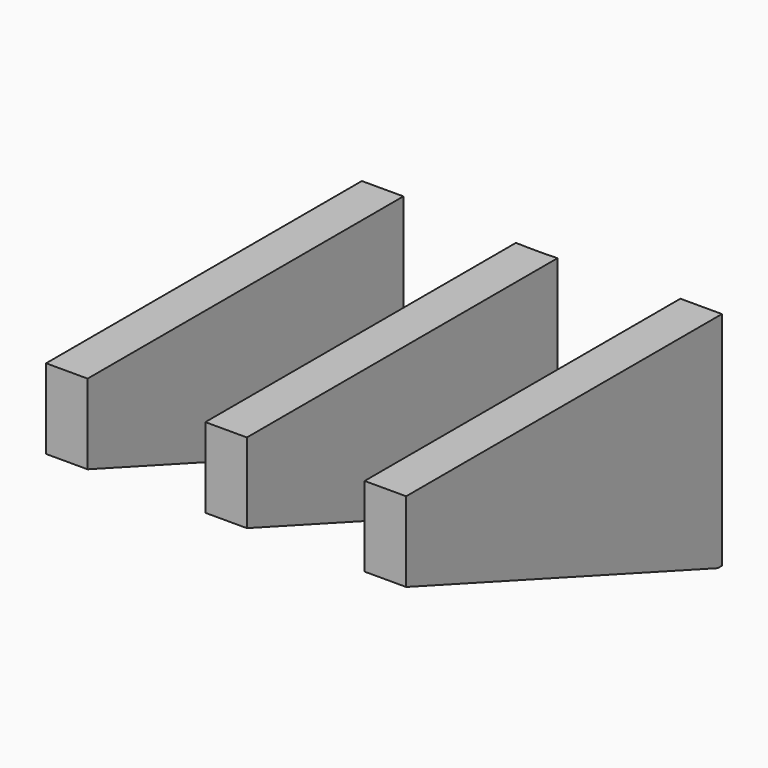
from build123d import *

# Parameters (mm, degrees)
CYLINDER1826_R         = 74
CYLINDER1826_DEPTH     = 64
BOX793_W               = 80
BOX793_H               = 6
BOX793_DEPTH           = 20
BOX793_PLACEMENT_ANGLE = 20
BOX791_W               = 57
BOX791_H               = 6
BOX791_DEPTH           = 32
CUT589_PLACEMENT_ANGLE = 90
BOX786_W               = 80
BOX786_H               = 6
BOX786_DEPTH           = 20
BOX786_PLACEMENT_ANGLE = 20
BOX788_W               = 57
BOX788_H               = 6
BOX788_DEPTH           = 32
CUT586_PLACEMENT_ANGLE = 90
BOX797_W               = 80
BOX797_H               = 6
BOX797_DEPTH           = 20
BOX797_PLACEMENT_ANGLE = 20
BOX794_W               = 57
BOX794_H               = 6
BOX794_DEPTH           = 32
CUT591_PLACEMENT_ANGLE = 90


with BuildPart() as obj1:
    # Cylinder1826 → Cylinder1826 (new body)
    with BuildSketch(Plane.XY.offset(25)):
        Circle(CYLINDER1826_R)
    extrude(amount=CYLINDER1826_DEPTH)


with BuildPart() as krychle793:
    # Box793 → Box793 (new body)
    with BuildSketch(Plane.XY):
        with Locations((40, 3)):
            Rectangle(BOX793_W, BOX793_H)
    extrude(amount=BOX793_DEPTH)


with BuildPart() as krychle793_1:
    # Box793 placement: moved
    add(krychle793.part.moved(Location((-138.7, -24, 54.35))).rotate(Axis((-138.7, -24, 54.35), (0, 1, 0)), BOX793_PLACEMENT_ANGLE))


with BuildPart() as cut589:
    # Box791 → Box791 (new body)
    with BuildSketch(Plane(origin=(-130, -24, 52), x_dir=(1, 0, 0), z_dir=(0, 0, 1))):
        with Locations((28.5, 3)):
            Rectangle(BOX791_W, BOX791_H)
    extrude(amount=BOX791_DEPTH)

    # Cut589: cut Krychle793
    add(krychle793_1.part, mode=Mode.SUBTRACT)


with BuildPart() as cut589_1:
    # Cut589 placement: moved
    add(cut589.part.moved(Location((-44, 0, 0))).rotate(Axis((-44, 0, 0), (0, 0, 1)), CUT589_PLACEMENT_ANGLE))


with BuildPart() as krychle786:
    # Box786 → Box786 (new body)
    with BuildSketch(Plane.XY):
        with Locations((40, 3)):
            Rectangle(BOX786_W, BOX786_H)
    extrude(amount=BOX786_DEPTH)


with BuildPart() as krychle786_1:
    # Box786 placement: moved
    add(krychle786.part.moved(Location((-138.7, -24, 54.35))).rotate(Axis((-138.7, -24, 54.35), (0, 1, 0)), BOX786_PLACEMENT_ANGLE))


with BuildPart() as cut586:
    # Box788 → Box788 (new body)
    with BuildSketch(Plane(origin=(-130, -24, 52), x_dir=(1, 0, 0), z_dir=(0, 0, 1))):
        with Locations((28.5, 3)):
            Rectangle(BOX788_W, BOX788_H)
    extrude(amount=BOX788_DEPTH)

    # Cut586: cut Krychle786
    add(krychle786_1.part, mode=Mode.SUBTRACT)


with BuildPart() as cut586_1:
    # Cut586 placement: moved
    add(cut586.part.moved(Location((2, 0, 0))).rotate(Axis((2, 0, 0), (0, 0, 1)), CUT586_PLACEMENT_ANGLE))


with BuildPart() as krychle797:
    # Box797 → Box797 (new body)
    with BuildSketch(Plane.XY):
        with Locations((40, 3)):
            Rectangle(BOX797_W, BOX797_H)
    extrude(amount=BOX797_DEPTH)


with BuildPart() as krychle797_1:
    # Box797 placement: moved
    add(krychle797.part.moved(Location((-138.7, -24, 54.35))).rotate(Axis((-138.7, -24, 54.35), (0, 1, 0)), BOX797_PLACEMENT_ANGLE))


with BuildPart() as cut592:
    # Box794 → Box794 (new body)
    with BuildSketch(Plane(origin=(-130, -24, 52), x_dir=(1, 0, 0), z_dir=(0, 0, 1))):
        with Locations((28.5, 3)):
            Rectangle(BOX794_W, BOX794_H)
    extrude(amount=BOX794_DEPTH)

    # Cut591: cut Krychle797
    add(krychle797_1.part, mode=Mode.SUBTRACT)


with BuildPart() as cut592_1:
    # Cut591 placement: moved
    add(cut592.part.moved(Location((-21, 0, 0))).rotate(Axis((-21, 0, 0), (0, 0, 1)), CUT591_PLACEMENT_ANGLE))

    # Compound928: union Cut589, Cut586
    add(cut589_1.part)
    add(cut586_1.part)

    # Cut592: cut obj1
    add(obj1.part, mode=Mode.SUBTRACT)


solid = cut592_1.part
